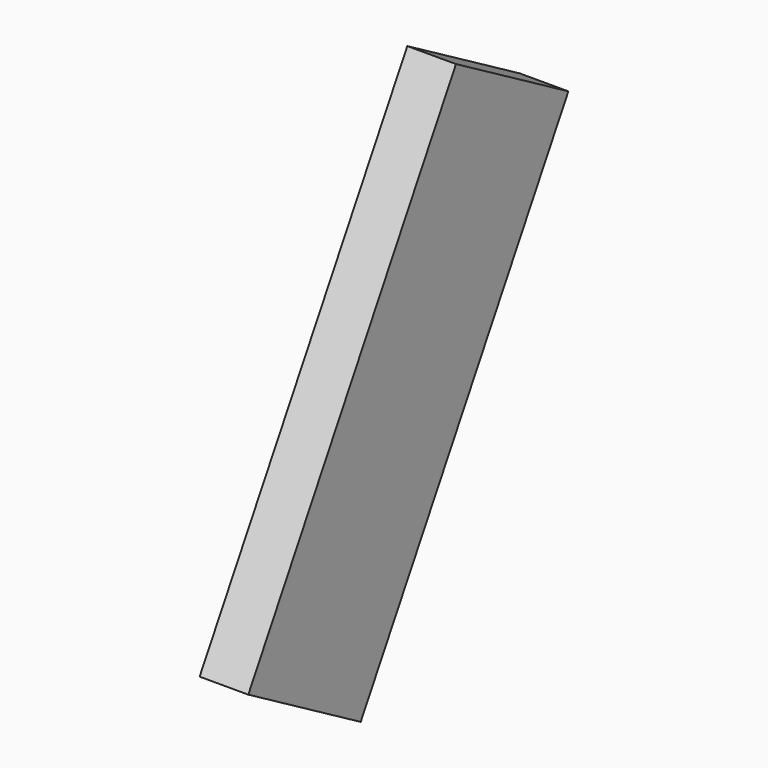
from build123d import *

# Parameters (mm, degrees)
PAD010_DEPTH    = 148
SKETCH016_W     = 66.569612
SKETCH016_H     = 138
POCKET005_DEPTH = 33.501
POCKET006_DEPTH = 33.501


with BuildPart() as part:
    # Sketch015 → Pad010 (new body)
    with BuildSketch(Plane.YZ):
        Polygon((-71.9393102292, 47), (-63.2790561914, 42), (-36.1435935394, 89), (-44.8038475773, 94), align=None)
    extrude(amount=PAD010_DEPTH)

    # Sketch016 (on Face2 of Pad010) → Pocket005 (cut, through all)
    with BuildSketch(Plane(origin=(0, -65.645825623, 37.9006350946), x_dir=(0, 0.5, 0.8660254038), z_dir=(0, 0.8660254038, -0.5))):
        with Locations((35.248905, 69)):
            Rectangle(SKETCH016_W, SKETCH016_H)
    extrude(amount=-POCKET005_DEPTH, mode=Mode.SUBTRACT)

    # Sketch017 (on Face3 of Pocket005) → Pocket006 (cut, through all)
    with BuildSketch(Plane(origin=(0, -65.645825623, 37.9006350946), x_dir=(0, 0.5, 0.8660254038), z_dir=(0, 0.8660254038, -0.5))):
        Polygon((4.7335388633, 138), (4.7335388633, 148), (59.0044641671, 148), (59.0044641671, 138), (47.8690015152, 138), (47.8690015152, 141), (15.8690015152, 141), (15.8690015152, 138), align=None)
    extrude(amount=-POCKET006_DEPTH, mode=Mode.SUBTRACT)


solid = part.part
